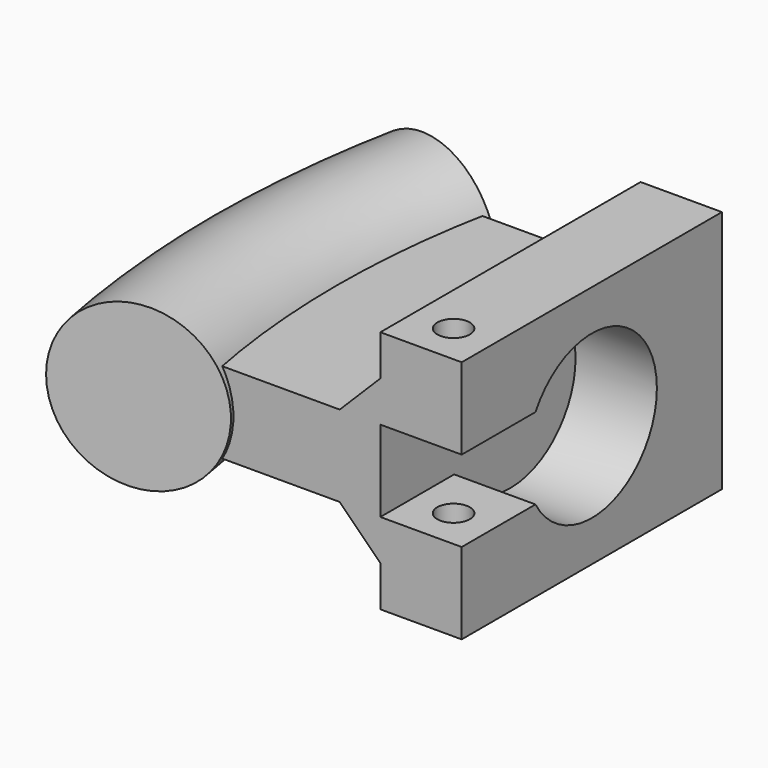
from build123d import *

# Parameters (mm, degrees)
PAD_DEPTH            = 15
PAD_DEPTH_BACK       = 15
TORUS_R              = 10
CYLINDER001_R        = 2
CYLINDER001_DEPTH    = 30
BOX002_W             = 10
BOX002_H             = 12
BOX002_DEPTH         = 10
CYLINDER_R           = 10
CYLINDER_DEPTH       = 10
CYLINDER_PITCH_ANGLE = -90
BOX_W                = 10
BOX_H                = 40
BOX_DEPTH            = 30
BOX003_W             = 10
BOX003_H             = 40
BOX003_DEPTH         = 20
CHAMFER_SIZE         = 5
BOX001_W             = 30
BOX001_H             = 40
BOX001_DEPTH         = 10
CUT_PLACEMENT_ANGLE  = 180


with BuildPart() as body:
    # Sketch → Pad (new body, two sides)
    with BuildSketch(Plane.XY) as pad_sk:
        Polygon((-20, 26.85317), (115, 0), (-20, -26.85317), align=None)
    extrude(amount=PAD_DEPTH)
    extrude(pad_sk.sketch, amount=-PAD_DEPTH_BACK)


with BuildPart() as rail_common:
    # Torus → Torus (revolve)
    with BuildSketch(Plane(origin=(115, 0, 0), x_dir=(1, 0, 0), z_dir=(0, -1, 0))):
        with Locations((115, 0)):
            Circle(TORUS_R)
    revolve(axis=Axis((115, 0, 0), (0, 0, 1)))

    # Common: intersect Body
    add(body.part, mode=Mode.INTERSECT)


with BuildPart() as cylinder001:
    # Cylinder001 → Cylinder001 (new body)
    with BuildSketch(Plane(origin=(-35, -15, -15), x_dir=(1, 0, 0), z_dir=(0, 0, 1))):
        Circle(CYLINDER001_R)
    extrude(amount=CYLINDER001_DEPTH)


with BuildPart() as cube002:
    # Box002 → Box002 (new body)
    with BuildSketch(Plane(origin=(-40, -20, -5), x_dir=(1, 0, 0), z_dir=(0, 0, 1))):
        with Locations((5, 6)):
            Rectangle(BOX002_W, BOX002_H)
    extrude(amount=BOX002_DEPTH)


with BuildPart() as negative_fusion:
    # Cylinder → Cylinder (new body)
    with BuildSketch(Plane.XY):
        Circle(CYLINDER_R)
    extrude(amount=CYLINDER_DEPTH)


with BuildPart() as negative_fusion_1:
    # Cylinder pitch: moved
    add(negative_fusion.part.rotate(Axis((0, 0, 0), (0, 1, 0)), CYLINDER_PITCH_ANGLE))


with BuildPart() as negative_fusion_2:
    # Cylinder placement: moved
    add(negative_fusion_1.part.moved(Location((-30, 0, 0))))

    # Fusion001: union Cylinder001, Cube002
    add(cylinder001.part)
    add(cube002.part)


with BuildPart() as cube:
    # Box → Box (new body)
    with BuildSketch(Plane(origin=(-40, -20, -15), x_dir=(1, 0, 0), z_dir=(0, 0, 1))):
        with Locations((5, 20)):
            Rectangle(BOX_W, BOX_H)
    extrude(amount=BOX_DEPTH)


with BuildPart() as chamfer_body:
    # Box003 → Box003 (new body)
    with BuildSketch(Plane(origin=(-35, -20, -10), x_dir=(1, 0, 0), z_dir=(0, 0, 1))):
        with Locations((5, 20)):
            Rectangle(BOX003_W, BOX003_H)
    extrude(amount=BOX003_DEPTH)

    # Chamfer
    chamfer_edges = [chamfer_body.edges().sort_by_distance(p)[0] for p in [
        (-25, 0, 10),
        (-25, 0, -10),
    ]]
    chamfer(chamfer_edges, length=CHAMFER_SIZE)


with BuildPart() as cut:
    # Box001 → Box001 (new body)
    with BuildSketch(Plane(origin=(-30, -20, -5), x_dir=(1, 0, 0), z_dir=(0, 0, 1))):
        with Locations((15, 20)):
            Rectangle(BOX001_W, BOX001_H)
    extrude(amount=BOX001_DEPTH)

    # Fusion: union Cube, Chamfer body
    add(cube.part)
    add(chamfer_body.part)

    # Cut: cut Negative Fusion
    add(negative_fusion_2.part, mode=Mode.SUBTRACT)


with BuildPart() as cut_1:
    # Cut placement: moved
    add(cut.part.rotate(Axis((0, 0, 0), (0, 1, 0)), CUT_PLACEMENT_ANGLE))


solid = Compound([rail_common.part, cut_1.part])
